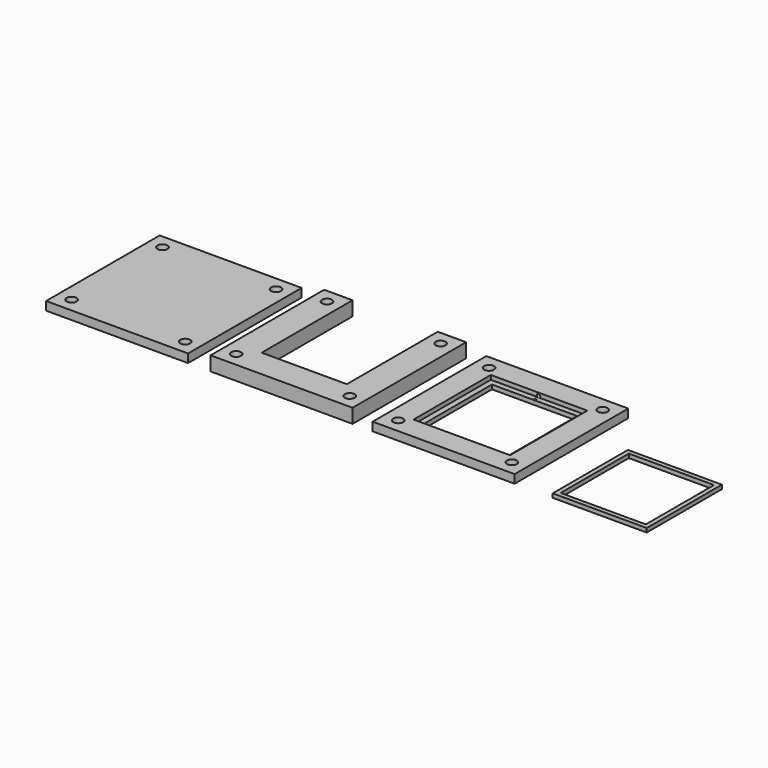
from build123d import *

# Parameters (mm, degrees)
F0_W      = 50
F0_H      = 50
F0_R      = 1.75
F1_DEPTH  = 3
F2_R      = 1.75
F2_W      = 30
F2_H      = 10
F3_DEPTH  = 5
F5_W      = 30
F5_H      = 30
F6_DEPTH  = 3.001
F7_W      = 34
F7_H      = 34
F8_DEPTH  = 1.5
F9_W      = 33.1
F9_H      = 33.1
F9_W_2    = 30
F9_H_2    = 30
F10_DEPTH = 1.4
F11_R     = 0.6
F12_DEPTH = 25


with BuildPart() as f1:
    # F0 (on Top) → F1 (new body)
    with BuildSketch(Plane.XY):
        with Locations((25, 25)):
            Rectangle(F0_W, F0_H)
        with Locations((5, 5)):
            Circle(F0_R, mode=Mode.SUBTRACT)
        with Locations((45, 5)):
            Circle(F0_R, mode=Mode.SUBTRACT)
        with Locations((5, 45)):
            Circle(F0_R, mode=Mode.SUBTRACT)
        with Locations((45, 45)):
            Circle(F0_R, mode=Mode.SUBTRACT)
    extrude(amount=F1_DEPTH)


with BuildPart() as f3:
    # F2 (on Top) → F3 (new body)
    with BuildSketch(Plane.XY):
        Polygon((67.919823, 50), (57.919823, 50), (57.919823, 0), (67.919823, 0), (67.919823, 10), align=None)
        with Locations((62.919823, 5)):
            Circle(F2_R, mode=Mode.SUBTRACT)
        with Locations((62.919823, 45)):
            Circle(F2_R, mode=Mode.SUBTRACT)
        with Locations((82.919823, 5)):
            Rectangle(F2_W, F2_H)
        Polygon((97.919823, 50), (97.919823, 10), (97.919823, 0), (107.919823, 0), (107.919823, 50), align=None)
        with Locations((102.919823, 5)):
            Circle(F2_R, mode=Mode.SUBTRACT)
        with Locations((102.919823, 45)):
            Circle(F2_R, mode=Mode.SUBTRACT)
    extrude(amount=F3_DEPTH)


with BuildPart() as f4_1:
    # F4: copy of F1
    add(f1.part.moved(Location((115, 0, 0))))

    # F5 (on face) → F6 (cut, through all)
    with BuildSketch(Plane.XY.offset(3)):
        with Locations((140, 25)):
            Rectangle(F5_W, F5_H)
    extrude(amount=-F6_DEPTH, mode=Mode.SUBTRACT)

    # F7 (on face) → F8 (cut)
    with BuildSketch(Plane.XY.offset(3)):
        with Locations((140, 25)):
            Rectangle(F7_W, F7_H)
    extrude(amount=-F8_DEPTH, mode=Mode.SUBTRACT)

    # F11 (on face) → F12 (cut)
    with BuildSketch(Plane(origin=(0, 50, 0), x_dir=(-1, 0, 0), z_dir=(0, 1, 0))):
        with Locations((-139.85, 2)):
            Circle(F11_R)
    extrude(amount=-F12_DEPTH, mode=Mode.SUBTRACT)


with BuildPart() as f10:
    # F9 (on Top) → F10 (new body)
    with BuildSketch(Plane.XY):
        with Locations((194.956502, 16.55)):
            Rectangle(F9_W, F9_H)
        with Locations((194.956502, 16.55)):
            Rectangle(F9_W_2, F9_H_2, mode=Mode.SUBTRACT)
    extrude(amount=F10_DEPTH)


solid = Compound([f1.part, f3.part, f4_1.part, f10.part])
